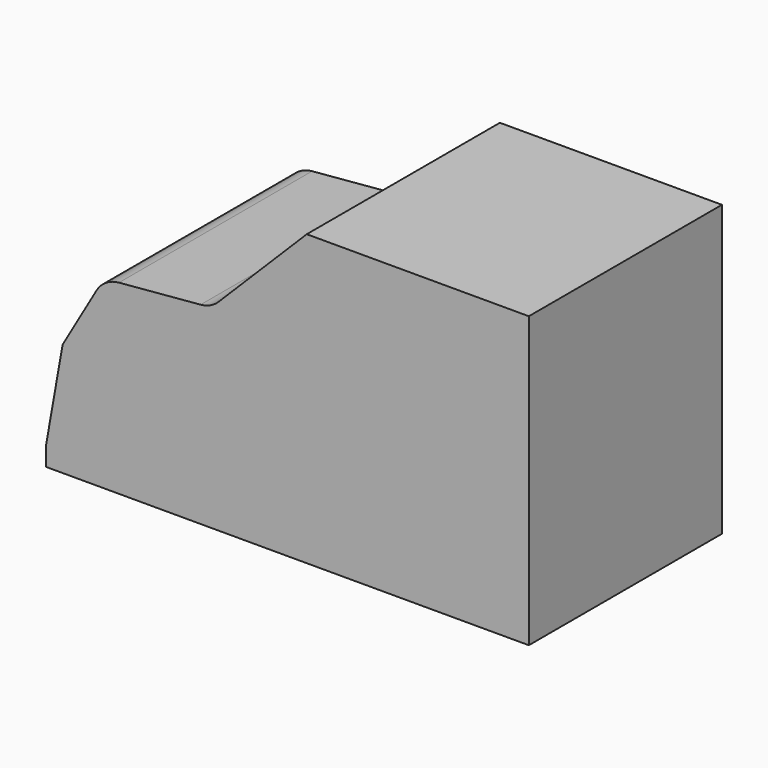
from build123d import *

# Parameters (mm, degrees)
F1_DEPTH = 25


with BuildPart() as f1:
    # F0 (on Front) → F1 (new body)
    with BuildSketch(Plane.XZ):
        with BuildLine():
            Line((0, 2), (0, 0))
            Line((0, 0), (50, 0))
            Line((50, 0), (50, 30))
            Line((50, 30), (27, 30))
            Line((27, 30), (17.866688, 20.866688))
            ThreePointArc((17.866688, 20.866688), (17.013222, 20.269085), (16.006835, 19.999424))
            Line((16.006835, 19.999424), (7.549656, 19.259517))
            ThreePointArc((7.549656, 19.259517), (6.199225, 18.801107), (5.213047, 17.770933))
            Line((5.213047, 17.770933), (1.711418, 11.705932))
            Line((1.711418, 11.705932), (0, 2))
        make_face()
    extrude(amount=F1_DEPTH)


solid = f1.part
